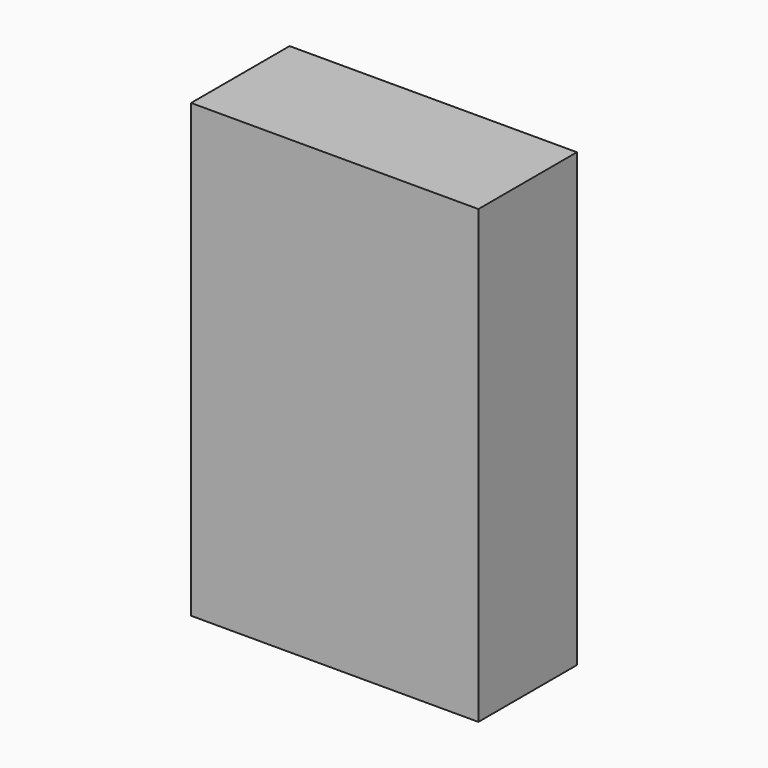
from build123d import *

# Parameters (mm, degrees)
BOX3525_W        = 1300
BOX3525_H        = 550
BOX3525_DEPTH    = 500
ARRAY280_Z_COUNT = 4
ARRAY280_Z_PITCH = 550
BOX3524_W        = 1400
BOX3524_H        = 600
BOX3524_DEPTH    = 2200


with BuildPart() as array280:
    # Box3525 → Box3525 (new body)
    with BuildSketch(Plane(origin=(8750, -1950, 0), x_dir=(1, 0, 0), z_dir=(0, 0, 1))):
        with Locations((650, 275)):
            Rectangle(BOX3525_W, BOX3525_H)
    extrude(amount=BOX3525_DEPTH)

    # Array280 Z: Array280 ×4


with BuildPart() as array280_1:
    add(array280.part)
    with Locations(*[(0, 0, i * ARRAY280_Z_PITCH) for i in range(1, ARRAY280_Z_COUNT)]):
        add(array280.part)


with BuildPart() as cut002:
    # Box3524 → Box3524 (new body)
    with BuildSketch(Plane(origin=(8700, -2000, 0), x_dir=(1, 0, 0), z_dir=(0, 0, 1))):
        with Locations((700, 300)):
            Rectangle(BOX3524_W, BOX3524_H)
    extrude(amount=BOX3524_DEPTH)

    # Cut002: cut Array280
    add(array280_1.part, mode=Mode.SUBTRACT)


solid = cut002.part
